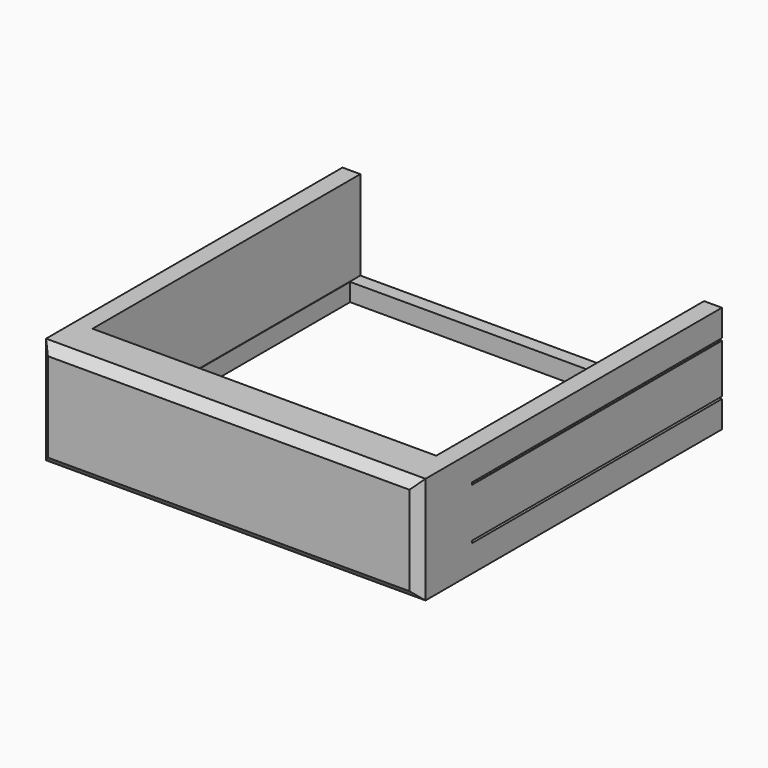
from build123d import *

# Parameters (mm, degrees)
F2_DEPTH       = 304.8
F3_W           = 1079.5
F3_H           = 1079.5
F4_DEPTH       = 50.8
F5_SIZE        = 25.4
F7_R           = 63.5
F8_DEPTH       = 50.8
F9_W           = 779.78
F9_H           = 558.8
F9_W_2         = 754.38
F9_H_2         = 533.4
F9_R           = 63.5
F10_DEPTH      = 50.8
F12_DEPTH      = 254
F12_DEPTH_BACK = 635


with BuildPart() as f2:
    # F1 (on face) → F2 (new body)
    with BuildSketch(Plane.XY):
        Polygon((539.75, -825.5), (539.75, 254), (488.95, 254), (488.95, -698.5), (-488.95, -698.5), (-488.95, 254), (-539.75, 254), (-539.75, -825.5), align=None)
    extrude(amount=F2_DEPTH)

    # F3 (on Top) → F4 (join)
    with BuildSketch(Plane.XY):
        with Locations((0, -285.75)):
            Rectangle(F3_W, F3_H)
    extrude(amount=F4_DEPTH)

    # F5
    f5_edges = [f2.edges().sort_by_distance(p)[0] for p in [
        (0, -825.5, 0),
        (-539.75, -825.5, 152.4),
        (0, -825.5, 304.8),
        (539.75, -825.5, 152.4),
    ]]
    chamfer(f5_edges, length=F5_SIZE)

    # F7 (on face) → F8 (cut, through all)
    with BuildSketch(Plane.XY.offset(50.8)):
        Circle(F7_R)
    extrude(amount=-F8_DEPTH, mode=Mode.SUBTRACT)

    # F9 (on face) → F10 (cut, through all)
    with BuildSketch(Plane.XY.offset(50.8)):
        with Locations((-97.79, -63.5)):
            Rectangle(F9_W, F9_H)
        with Locations((-97.79, -63.5)):
            Rectangle(F9_W_2, F9_H_2, mode=Mode.SUBTRACT)
        with Locations((-97.79, -63.5)):
            Rectangle(F9_W_2, F9_H_2)
        Circle(F9_R, mode=Mode.SUBTRACT)
    extrude(amount=-F10_DEPTH, mode=Mode.SUBTRACT)

    # F11 (on Front) → F12 (cut, two sides)
    with BuildSketch(Plane.XZ) as f12_sk:
        Polygon((557.425588846, 76.2), (557.425588846, 152.4), (557.425588846, 228.6), (532.025588846, 228.6), (532.025588846, 215.9), (538.375588846, 215.9), (538.375588846, 222.25), (551.075588846, 222.25), (551.075588846, 152.4), (551.075588846, 82.55), (538.375588846, 82.55), (538.375588846, 88.9), (532.025588846, 88.9), (532.025588846, 76.2), align=None)
        Polygon((-532.025588846, 88.9), (-538.375588846, 88.9), (-538.375588846, 82.55), (-551.075588846, 82.55), (-551.075588846, 152.4), (-551.075588846, 222.25), (-538.375588846, 222.25), (-538.375588846, 215.9), (-532.025588846, 215.9), (-532.025588846, 228.6), (-557.425588846, 228.6), (-557.425588846, 152.4), (-557.425588846, 76.2), (-532.025588846, 76.2), align=None)
    extrude(amount=-F12_DEPTH, mode=Mode.SUBTRACT)
    extrude(f12_sk.sketch, amount=F12_DEPTH_BACK, mode=Mode.SUBTRACT)


solid = f2.part
